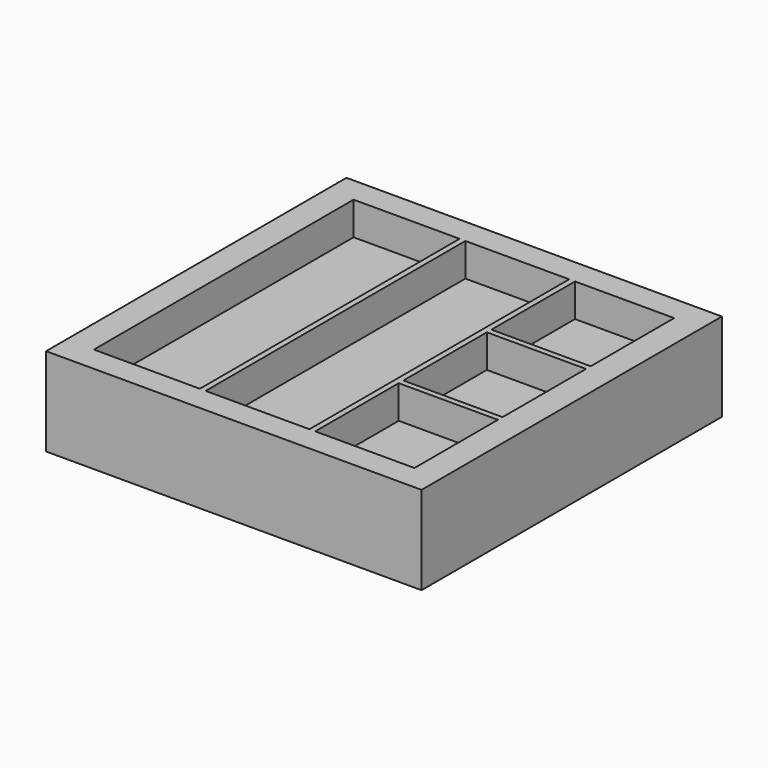
from build123d import *

# Parameters (mm, degrees)
F0_W     = 215.9
F0_H     = 215.9
F1_DEPTH = 50.8
F2_W     = 60.96
F2_H     = 186.68595
F2_W_2   = 59.69
F2_W_3   = 57.038961
F2_H_2   = 60.011442
F3_DEPTH = 19.05
F4_W     = 88.9
F4_H     = 38.1
F5_DEPTH = 12.7
F7_DEPTH = 78.74


with BuildPart() as f1:
    # F0 (on Top) → F1 (new body)
    with BuildSketch(Plane.XY):
        Rectangle(F0_W, F0_H)
    extrude(amount=F1_DEPTH)

    # F2 (on face) → F3 (cut)
    with BuildSketch(Plane.XY.offset(50.8)):
        with Locations((-61.690293, 0)):
            Rectangle(F2_W, F2_H)
        with Locations((1.960519, 0)):
            Rectangle(F2_W_2, F2_H)
        with Locations((63.650813, 63.337254)):
            Rectangle(F2_W_3, F2_H_2)
        with Locations((63.650813, 0)):
            Rectangle(F2_W_3, F2_H_2)
        with Locations((63.650813, -63.337254)):
            Rectangle(F2_W_3, F2_H_2)
    extrude(amount=-F3_DEPTH, mode=Mode.SUBTRACT)

    # F4 (on face) → F5 (cut)
    with BuildSketch(Plane(origin=(0, 0, 0), x_dir=(1, 0, 0), z_dir=(0, 0, -1))):
        Rectangle(F4_W, F4_H)
    extrude(amount=-F5_DEPTH, mode=Mode.SUBTRACT)

    # F6 (on face) → F7 (cut)
    with BuildSketch(Plane.XZ.offset(-19.05)):
        Polygon((-32.131, 0), (0, 0), (32.131, 0), (39.4208, 12.7), (-39.4208, 12.7), align=None)
    extrude(amount=-F7_DEPTH, mode=Mode.SUBTRACT)


solid = f1.part
